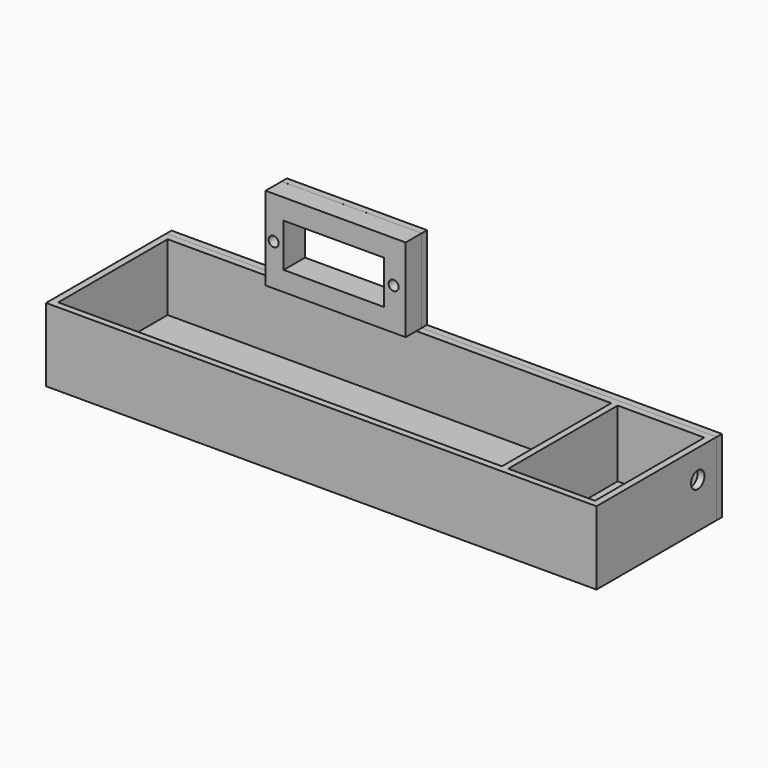
from build123d import *

# Parameters (mm, degrees)
SKETCH_W        = 165
SKETCH_H        = 45
PAD_DEPTH       = 22
SKETCH001_W     = 133
SKETCH001_H     = 41
POCKET_DEPTH    = 20
SKETCH002_W     = 26
SKETCH002_H     = 41
POCKET001_DEPTH = 20
SKETCH003_W     = 42
SKETCH003_H     = 47
PAD001_DEPTH    = 2
SKETCH008_W     = 42
SKETCH008_H     = 25
PAD002_DEPTH    = 6
SKETCH005_W     = 30
SKETCH005_H     = 13
POCKET002_DEPTH = 8.001
SKETCH009_R     = 1.5
POCKET003_DEPTH = 8.001
SKETCH007_R     = 2.5
POCKET004_DEPTH = 5
SKETCH011_W     = 88.399971
SKETCH011_H     = 21.999902
PAD003_DEPTH    = 2
SKETCH012_W     = 34.60038
SKETCH012_H     = 21.999496
PAD004_DEPTH    = 2


with BuildPart() as part:
    # Sketch → Pad (new body)
    with BuildSketch(Plane.XY):
        with Locations((82.5, 22.5)):
            Rectangle(SKETCH_W, SKETCH_H)
    extrude(amount=PAD_DEPTH)

    # Sketch001 (on Face6 of Pad) → Pocket (cut)
    with BuildSketch(Plane.XY.offset(22)):
        with Locations((68.54825, 22.488898)):
            Rectangle(SKETCH001_W, SKETCH001_H)
    extrude(amount=-POCKET_DEPTH, mode=Mode.SUBTRACT)

    # Sketch002 (on Face5 of Pocket) → Pocket001 (cut)
    with BuildSketch(Plane.XY.offset(22)):
        with Locations((149.979632, 22.458033)):
            Rectangle(SKETCH002_W, SKETCH002_H)
    extrude(amount=-POCKET001_DEPTH, mode=Mode.SUBTRACT)

    # Sketch003 (on Face1 of Pocket001) → Pad001 (join)
    with BuildSketch(Plane(origin=(0, 45, 0), x_dir=(-1, 0, 0), z_dir=(0, 1, 0))):
        with Locations((-55.599999, 23.509954)):
            Rectangle(SKETCH003_W, SKETCH003_H)
    extrude(amount=PAD001_DEPTH)

    # Sketch008 (on Face10 of Pad001) → Pad002 (join)
    with BuildSketch(Plane.XZ.offset(-45)):
        with Locations((55.598549, 34.508675)):
            Rectangle(SKETCH008_W, SKETCH008_H)
    extrude(amount=PAD002_DEPTH)

    # Sketch005 (on Face28 of Pad002) → Pocket002 (cut, through all)
    with BuildSketch(Plane.XZ.offset(-39)):
        with Locations((55.035654, 34.372233)):
            Rectangle(SKETCH005_W, SKETCH005_H)
    extrude(amount=-POCKET002_DEPTH, mode=Mode.SUBTRACT)

    # Sketch009 (on Face32 of Pocket002) → Pocket003 (cut, through all)
    with BuildSketch(Plane.XZ.offset(-39)):
        with Locations((37.021919, 34.390724)):
            Circle(SKETCH009_R)
        with Locations((72.989189, 34.493778)):
            Circle(SKETCH009_R)
    extrude(amount=-POCKET003_DEPTH, mode=Mode.SUBTRACT)

    # Sketch007 (on Face3 of Pocket003) → Pocket004 (cut)
    with BuildSketch(Plane.YZ.offset(165)):
        with Locations((37.952961, 13.56812)):
            Circle(SKETCH007_R)
    extrude(amount=-POCKET004_DEPTH, mode=Mode.SUBTRACT)

    # Sketch011 (on Face2 of Pocket004) → Pad003 (join)
    with BuildSketch(Plane(origin=(0, 45, 0), x_dir=(-1, 0, 0), z_dir=(0, 1, 0))):
        with Locations((-120.799969, 11.000045)):
            Rectangle(SKETCH011_W, SKETCH011_H)
    extrude(amount=PAD003_DEPTH)

    # Sketch012 (on Face2 of Pad003) → Pad004 (join)
    with BuildSketch(Plane(origin=(0, 45, 0), x_dir=(-1, 0, 0), z_dir=(0, 1, 0))):
        with Locations((-17.30019, 10.999748)):
            Rectangle(SKETCH012_W, SKETCH012_H)
    extrude(amount=PAD004_DEPTH)


solid = part.part
